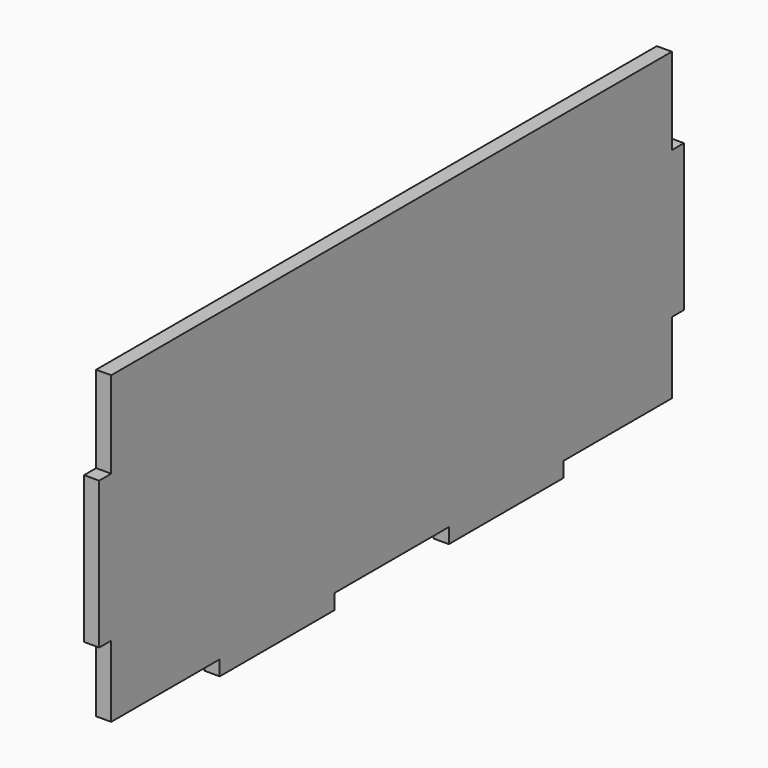
from build123d import *

# Parameters (mm, degrees)
F1_DEPTH = 4


with BuildPart() as f1:
    # F0 (on Right) → F1 (new body)
    with BuildSketch(Plane.YZ):
        Polygon((40, 4), (40, 0), (78, 0), (78, 4), (116, 4), (116, 0), (154, 0), (154, 4), (190, 4), (190, 23), (194, 23), (194, 62), (190, 62), (190, 85), (4, 85), (4, 62), (0, 62), (0, 23), (4, 23), (4, 4), align=None)
    extrude(amount=F1_DEPTH)


solid = f1.part
